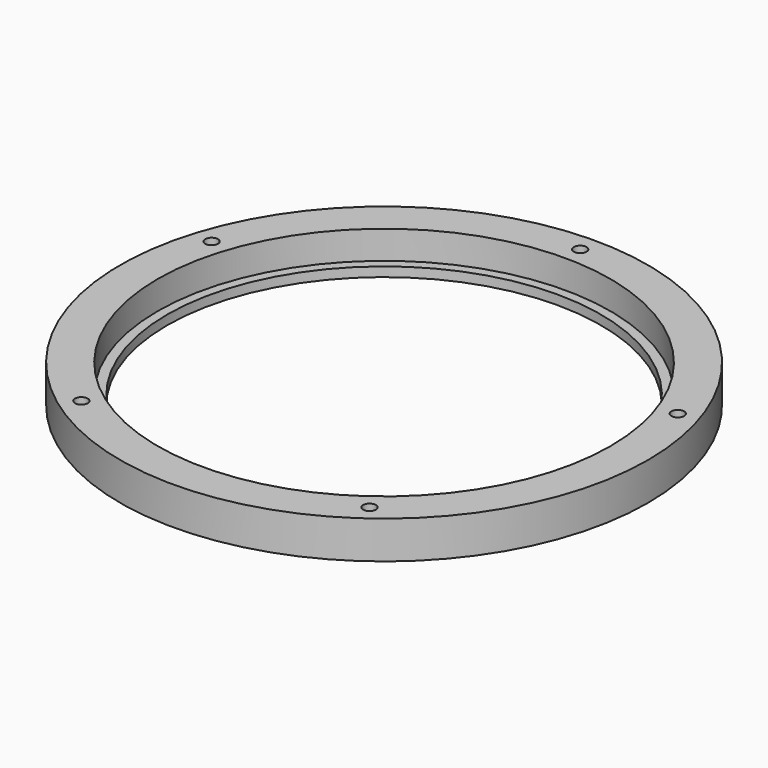
from build123d import *

# Parameters (mm, degrees)
F0_R     = 88.9
F0_R_2   = 3.9751
F0_R_3   = 76.2381
F0_R_4   = 73.0631
F1_DEPTH = 12.7
F2_DEPTH = 9.525
F0_R_5   = 2.15265
F3_DEPTH = 8.255


with BuildPart() as f1:
    # F0 (on Top) → F1 (new body)
    with BuildSketch(Plane.XY):
        Circle(F0_R)
        with Locations((-48.521673, -66.784353)):
            Circle(F0_R_2, mode=Mode.SUBTRACT)
        with Locations((48.521673, -66.784353)):
            Circle(F0_R_2, mode=Mode.SUBTRACT)
        with Locations((-78.509715, 25.509353)):
            Circle(F0_R_2, mode=Mode.SUBTRACT)
        Circle(F0_R_3, mode=Mode.SUBTRACT)
        with Locations((78.509715, 25.509353)):
            Circle(F0_R_2, mode=Mode.SUBTRACT)
        with Locations((0, 82.55)):
            Circle(F0_R_2, mode=Mode.SUBTRACT)
        Circle(F0_R_3)
        Circle(F0_R_4, mode=Mode.SUBTRACT)
    extrude(amount=-F1_DEPTH)

    # F0 (on Top) → F2 (cut)
    with BuildSketch(Plane.XY):
        Circle(F0_R_3)
        Circle(F0_R_4, mode=Mode.SUBTRACT)
    extrude(amount=-F2_DEPTH, mode=Mode.SUBTRACT)

    # F0 (on Top) → F3 (join)
    with BuildSketch(Plane.XY):
        with Locations((-48.521673, -66.784353)):
            Circle(F0_R_2)
        with Locations((-48.521673, -66.784353)):
            Circle(F0_R_5, mode=Mode.SUBTRACT)
        with Locations((48.521673, -66.784353)):
            Circle(F0_R_2)
        with Locations((48.521673, -66.784353)):
            Circle(F0_R_5, mode=Mode.SUBTRACT)
        with Locations((78.509715, 25.509353)):
            Circle(F0_R_2)
        with Locations((78.509715, 25.509353)):
            Circle(F0_R_5, mode=Mode.SUBTRACT)
        with Locations((0, 82.55)):
            Circle(F0_R_2)
        with Locations((0, 82.55)):
            Circle(F0_R_5, mode=Mode.SUBTRACT)
        with Locations((-78.509715, 25.509353)):
            Circle(F0_R_2)
        with Locations((-78.509715, 25.509353)):
            Circle(F0_R_5, mode=Mode.SUBTRACT)
    extrude(amount=-F3_DEPTH)


solid = f1.part
